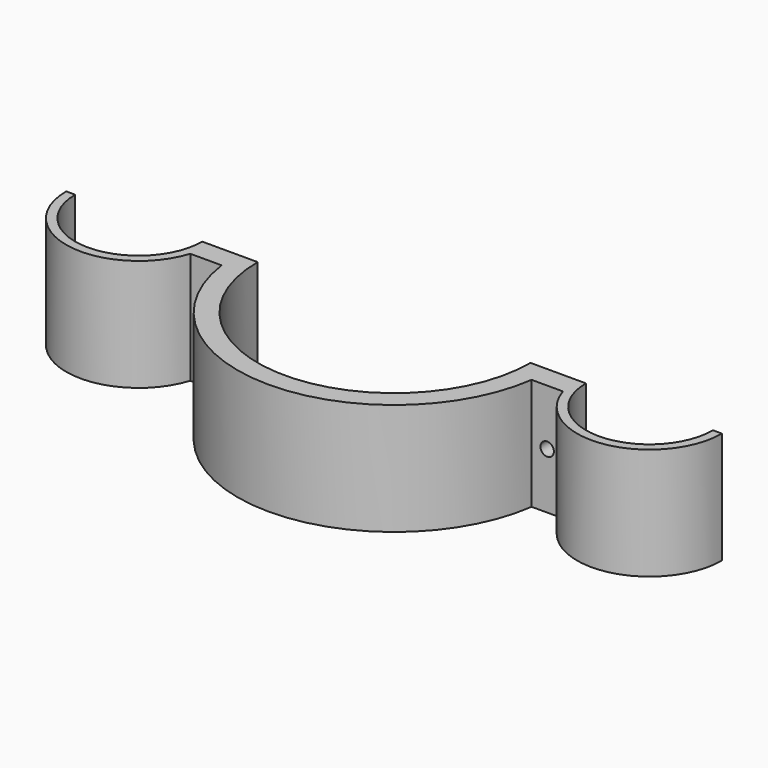
from build123d import *

# Parameters (mm, degrees)
F1_DEPTH = 25
F2_R     = 1.5
F3_DEPTH = 25


with BuildPart() as f1:
    # F0 (on Top) → F1 (new body)
    with BuildSketch(Plane.XY):
        with BuildLine():
            ThreePointArc((30.5, 0), (0, -30.5), (-30.5, 0))
            Line((-30.5, 0), (-35, 0))
            Line((-35, 0), (-42.80878, 0))
            Line((-42.80878, 0), (-42.901572, 0))
            ThreePointArc((-42.901572, 0), (-57.101572, -14.2), (-71.301572, 0))
            Line((-71.301572, 0), (-73.301572, 0))
            ThreePointArc((-73.301572, 0), (-59.575017, -16.010062), (-41.656872, -4.888889))
            Line((-41.656872, -4.888889), (-34.656872, -4.888889))
            ThreePointArc((-34.656872, -4.888889), (0, -35), (34.656872, -4.888889))
            Line((34.656872, -4.888889), (41.656872, -4.888889))
            ThreePointArc((41.656872, -4.888889), (59.575017, -16.010062), (73.301572, 0))
            Line((73.301572, 0), (71.301572, 0))
            ThreePointArc((71.301572, 0), (57.101572, -14.2), (42.901572, 0))
            Line((42.901572, 0), (40.901572, 0))
            Line((40.901572, 0), (35, 0))
            Line((35, 0), (30.5, 0))
        make_face()
    extrude(amount=F1_DEPTH)

    # F2 (on face) → F3 (cut)
    with BuildSketch(Plane.XZ.offset(4.888889)):
        with Locations((38.141131, 12.5)):
            Circle(F2_R)
        with Locations((-38.141131, 12.5)):
            Circle(F2_R)
    extrude(amount=-F3_DEPTH, mode=Mode.SUBTRACT)


solid = f1.part
